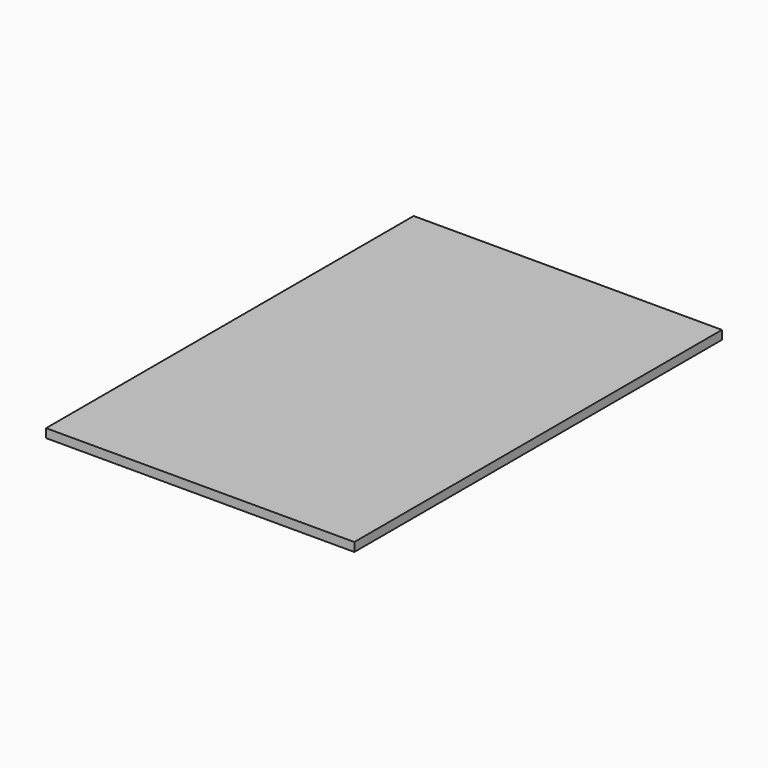
from build123d import *

# Parameters (mm, degrees)
SKETCH_W  = 420
SKETCH_H  = 626
PAD_DEPTH = 12


with BuildPart() as part:
    # Sketch → Pad (new body)
    with BuildSketch(Plane.XY):
        with Locations((210, 313)):
            Rectangle(SKETCH_W, SKETCH_H)
    extrude(amount=PAD_DEPTH)


solid = part.part
